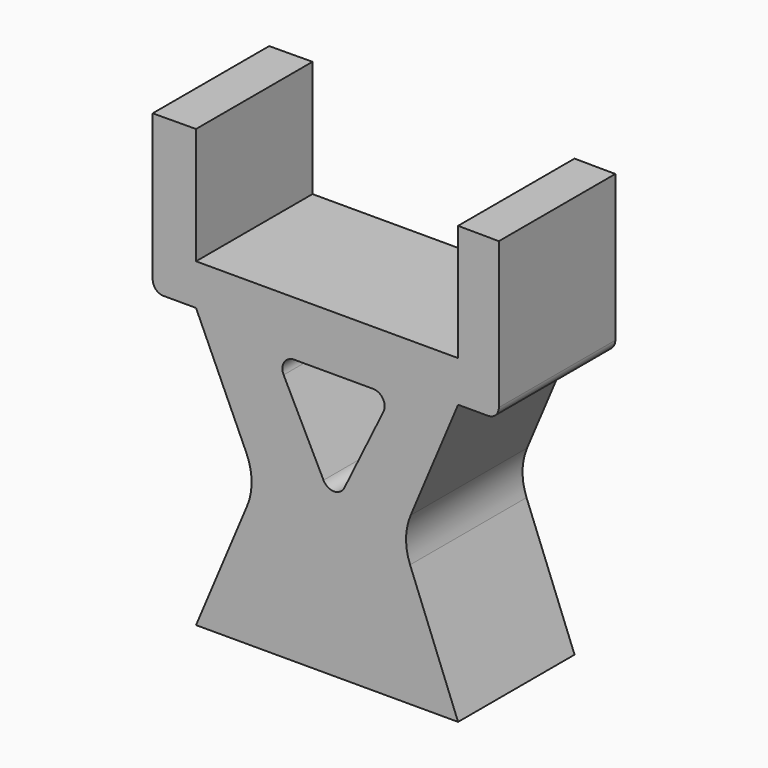
from build123d import *

# Parameters (mm, degrees)
F0_W     = 45
F0_H     = 55
F1_DEPTH = 25
F3_DEPTH = 25
F5_DEPTH = 25
F7_DEPTH = 42.3


with BuildPart() as f1:
    # F0 (on Front) → F1 (new body)
    with BuildSketch(Plane.XZ):
        with Locations((-22.5, -99.278839)):
            Rectangle(F0_W, F0_H)
    extrude(amount=F1_DEPTH)

    # F2 (on face) → F3 (join)
    with BuildSketch(Plane.XZ.offset(25)):
        with BuildLine():
            Line((0, -51.778839), (0, -71.778839))
            Line((0, -71.778839), (0, -78.826934))
            Line((0, -78.826934), (5.137502, -78.826934))
            ThreePointArc((5.137502, -78.826934), (6.454487, -78.281421), (7, -76.964436))
            Line((7, -76.964436), (7, -51.826934))
            Line((7, -51.826934), (0, -51.778839))
        make_face()
        with BuildLine():
            Line((-45, -78.826934), (-45, -71.778839))
            Line((-45, -71.778839), (-45, -51.778839))
            Line((-45, -51.778839), (-52.44166, -51.826934))
            Line((-52.44166, -51.826934), (-52.44166, -76.964436))
            ThreePointArc((-52.44166, -76.964436), (-51.896147, -78.281421), (-50.579162, -78.826934))
            Line((-50.579162, -78.826934), (-45, -78.826934))
        make_face()
    extrude(amount=-F3_DEPTH)

    # F4 (on face) → F5 (cut)
    with BuildSketch(Plane.XZ.offset(25)):
        with BuildLine():
            Line((-8.242352, -105.71086), (0, -126.778839))
            Line((0, -126.778839), (0, -78.826934))
            Line((0, -78.826934), (-8.146975, -98.189167))
            ThreePointArc((-8.146975, -98.189167), (-8.928874, -101.940703), (-8.242352, -105.71086))
        make_face()
        with BuildLine():
            Line((-36.344591, -97.953365), (-45, -78.826934))
            Line((-45, -78.826934), (-45, -126.778839))
            Line((-45, -126.778839), (-36.23784, -105.954549))
            ThreePointArc((-36.23784, -105.954549), (-35.456027, -101.942814), (-36.344591, -97.953365))
        make_face()
    extrude(amount=-F5_DEPTH, mode=Mode.SUBTRACT)

    # F6 (on face) → F7 (cut)
    with BuildSketch(Plane.XZ.offset(25)):
        with BuildLine():
            ThreePointArc((-12.812875, -84.048576), (-12.911621, -82.110146), (-14.60875, -81.168331))
            Line((-14.60875, -81.168331), (-21.401127, -81.168331))
            Line((-21.401127, -81.168331), (-28.165059, -81.168331))
            ThreePointArc((-28.165059, -81.168331), (-29.866361, -82.116868), (-29.953914, -84.062758))
            Line((-29.953914, -84.062758), (-23.108318, -97.753949))
            ThreePointArc((-23.108318, -97.753949), (-21.311551, -98.859506), (-19.523588, -97.739767))
            Line((-19.523588, -97.739767), (-12.812875, -84.048576))
        make_face()
    extrude(amount=-F7_DEPTH, mode=Mode.SUBTRACT)


solid = f1.part
